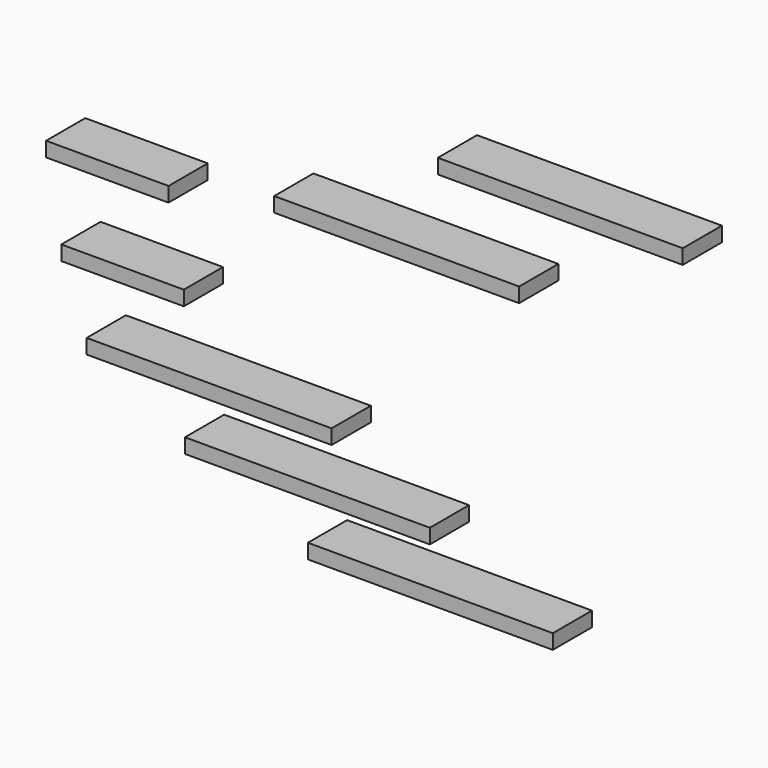
from build123d import *

# Parameters (mm, degrees)
F0_W     = 127
F0_H     = 25.4
F1_W     = 127
F1_H     = 25.4
F2_DEPTH = 7.62
F3_W     = 63.5
F3_H     = 25.4
F4_DEPTH = 7.62
F5_W     = 127
F5_H     = 25.4
F6_DEPTH = 7.62
F7_W     = 63.5
F7_H     = 25.4
F8_DEPTH = 7.62


with BuildPart() as f2:
    # F0 (on Top) + F1 (on Top) → F2 (new body)
    with BuildSketch(Plane.XY):
        with Locations((-151.475747, -145.004831)):
            Rectangle(F0_W, F0_H)
    with BuildSketch(Plane.XY):
        with Locations((-65.952227, -188.215315)):
            Rectangle(F1_W, F1_H)
        with Locations((30.688483, -229.324982)):
            Rectangle(F1_W, F1_H)
    extrude(amount=F2_DEPTH)


with BuildPart() as f4:
    # F3 (on Top) → F4 (new body)
    with BuildSketch(Plane.XY):
        with Locations((-242.427087, -87.424994)):
            Rectangle(F3_W, F3_H)
    extrude(amount=F4_DEPTH)


with BuildPart() as f6:
    # F5 (on Top) → F6 (new body)
    with BuildSketch(Plane.XY):
        with Locations((-139.111855, 67.142196)):
            Rectangle(F5_W, F5_H)
        with Locations((-169.871422, -0.444686)):
            Rectangle(F5_W, F5_H)
    extrude(amount=F6_DEPTH)


with BuildPart() as f8:
    # F7 (on Top) → F8 (new body)
    with BuildSketch(Plane.XY):
        with Locations((-304.058258, -20.281831)):
            Rectangle(F7_W, F7_H)
    extrude(amount=F8_DEPTH)


solid = Compound([f2.part, f4.part, f6.part, f8.part])
